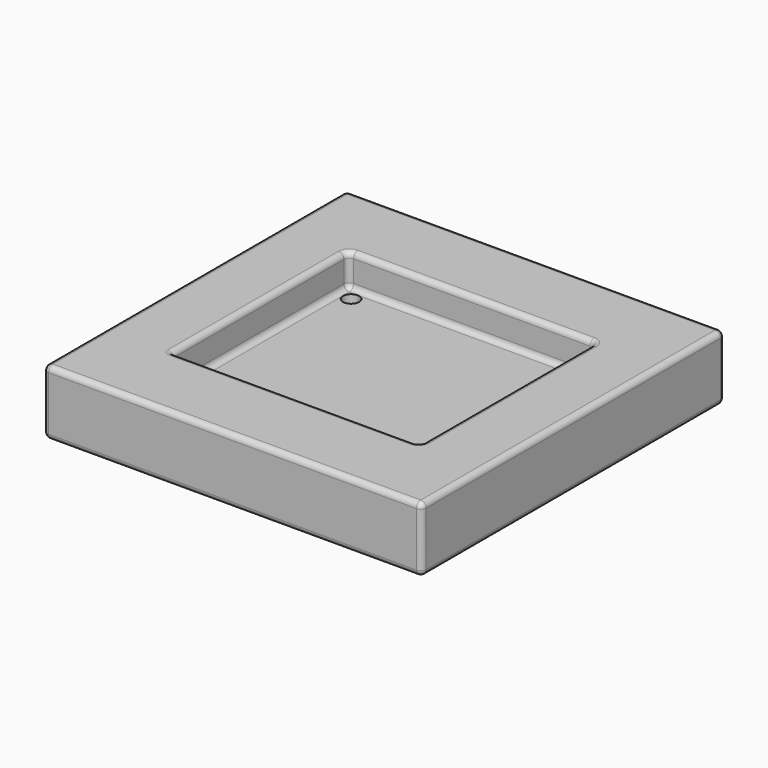
from build123d import *

# Parameters (mm, degrees)
SKETCH_W     = 70
SKETCH_H     = 70
PAD_DEPTH    = 12
SKETCH001_W  = 45.72
SKETCH001_H  = 40.64
POCKET_DEPTH = 6
FILLET_R     = 0.2
FILLET001_R  = 1
SKETCH002_R  = 1.5
HOLE_DEPTH   = 25


with BuildPart() as part:
    # Sketch → Pad (new body)
    with BuildSketch(Plane.XY):
        Rectangle(SKETCH_W, SKETCH_H)
    extrude(amount=PAD_DEPTH)

    # Sketch001 (on Face6 of Pad) → Pocket (cut)
    with BuildSketch(Plane.XY.offset(12)):
        with Locations((0, -0.01)):
            Rectangle(SKETCH001_W, SKETCH001_H)
    extrude(amount=-POCKET_DEPTH, mode=Mode.SUBTRACT)

    # Fillet
    fillet_edges = [part.edges().sort_by_distance(p)[0] for p in [
        (-22.86, -20.33, 9),
    ]]
    fillet(fillet_edges, radius=FILLET_R)

    # Fillet001
    fillet001_edges = [part.edges().sort_by_distance(p)[0] for p in [
        (-22.86, 0.09, 12),
        (-22.801421, -20.271421, 12),
        (0, 20.31, 12),
        (0.1, -20.33, 12),
        (22.86, -0.01, 12),
        (0, 35, 12),
        (-35, 0, 12),
        (35, 0, 12),
        (0, -35, 12),
        (-22.86, -20.13, 9),
        (-22.86, 20.31, 9),
        (-22.86, 0.09, 6),
        (-22.66, -20.33, 9),
        (-22.801421, -20.271421, 6),
        (22.86, 20.31, 9),
        (0, 20.31, 6),
        (22.86, -20.33, 9),
        (0.1, -20.33, 6),
        (22.86, -0.01, 6),
        (-35, 35, 6),
        (35, 35, 6),
        (0, 35, 0),
        (-35, -35, 6),
        (-35, 0, 0),
        (35, -35, 6),
        (35, 0, 0),
        (0, -35, 0),
    ]]
    fillet(fillet001_edges, radius=FILLET001_R)

    # Sketch002 (on Face11 of Fillet) → Hole (cut)
    with BuildSketch(Plane.XY.offset(6)):
        with Locations((-20.32, 17.78)):
            Circle(SKETCH002_R)
        with Locations((20.32, -17.78)):
            Circle(SKETCH002_R)
    extrude(amount=-HOLE_DEPTH, mode=Mode.SUBTRACT)


solid = part.part
